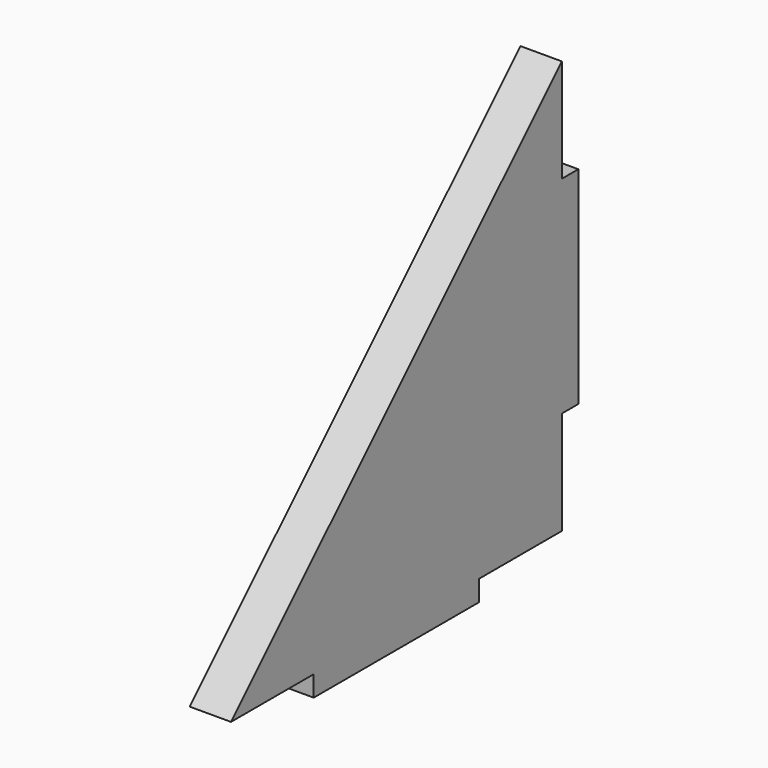
from build123d import *

# Parameters (mm, degrees)
F0_W     = 5
F0_H     = 50
F0_W_2   = 50
F0_H_2   = 5
F1_DEPTH = 10


with BuildPart() as f1:
    # F0 (on Right) → F1 (new body)
    with BuildSketch(Plane.YZ):
        with Locations((102.5, 50)):
            Rectangle(F0_W, F0_H)
        with Locations((50, -2.5)):
            Rectangle(F0_W_2, F0_H_2)
        Polygon((100, 100), (0, 0), (25, 0), (25, 5), (75, 5), (75, 0), (100, 0), (100, 25), (95, 25), (95, 75), (100, 75), align=None)
        with Locations((97.5, 50)):
            Rectangle(F0_W, F0_H)
        with Locations((50, 2.5)):
            Rectangle(F0_W_2, F0_H_2)
    extrude(amount=F1_DEPTH)


solid = f1.part
